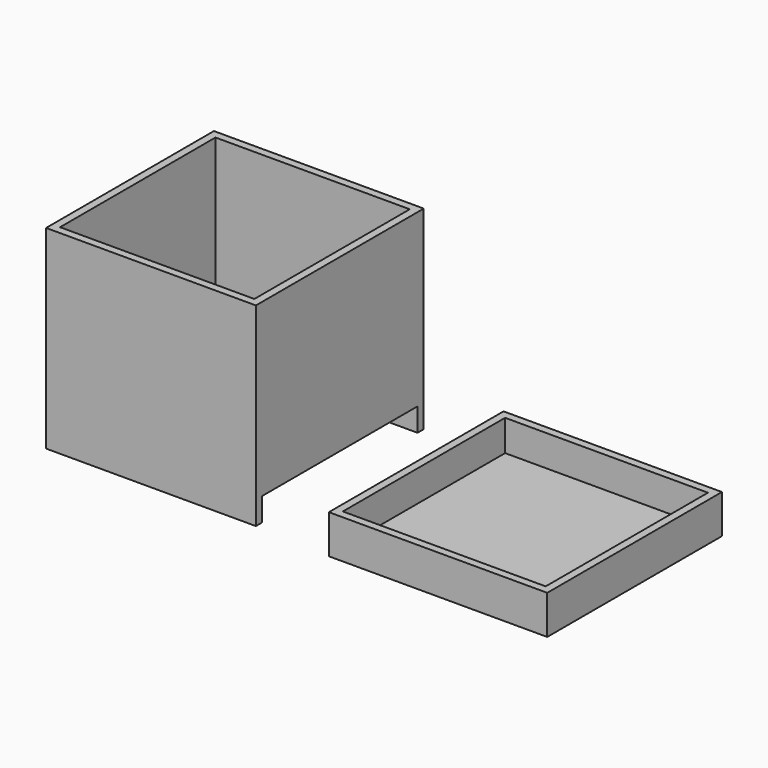
from build123d import *

# Parameters (mm, degrees)
F0_W     = 54
F0_H     = 54
F0_W_2   = 50
F0_H_2   = 50
F1_DEPTH = 50
F3_W     = 50
F3_H     = 6
F4_DEPTH = 2
F0_W_3   = 56.2
F0_H_3   = 56.2
F0_W_4   = 52.2
F0_H_4   = 52.2
F5_DEPTH = 10
F6_DEPTH = 2


with BuildPart() as f1:
    # F0 (on Top) → F1 (new body)
    with BuildSketch(Plane.XY):
        Rectangle(F0_W, F0_H)
        Rectangle(F0_W_2, F0_H_2, mode=Mode.SUBTRACT)
    extrude(amount=F1_DEPTH)

    # F3 (on offset) → F4 (cut)
    with BuildSketch(Plane.YZ.offset(27)):
        with Locations((0, 3)):
            Rectangle(F3_W, F3_H)
    extrude(amount=-F4_DEPTH, mode=Mode.SUBTRACT)


with BuildPart() as f5:
    # F0 (on Top) → F5 (new body)
    with BuildSketch(Plane.XY):
        with Locations((74.762814, 0)):
            Rectangle(F0_W_3, F0_H_3)
        with Locations((74.762814, 0)):
            Rectangle(F0_W_4, F0_H_4, mode=Mode.SUBTRACT)
    extrude(amount=F5_DEPTH)

    # F0 (on Top) → F6 (join)
    with BuildSketch(Plane.XY):
        with Locations((74.762814, 0)):
            Rectangle(F0_W_4, F0_H_4)
    extrude(amount=F6_DEPTH)


solid = Compound([f1.part, f5.part])
